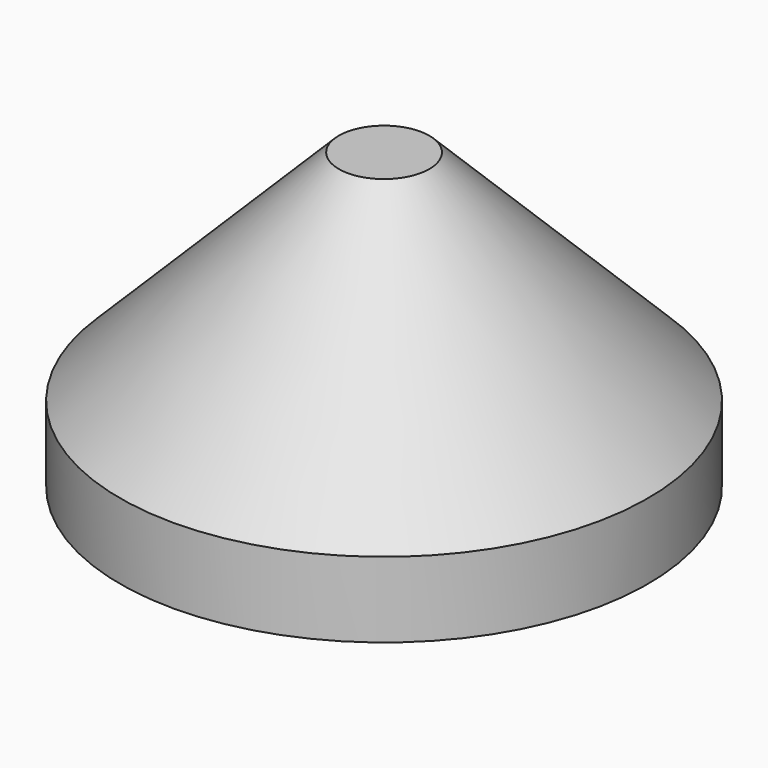
from build123d import *


with BuildPart() as part:
    # Sketch → Revolution (revolve)
    with BuildSketch(Plane.YZ):
        Polygon((0, 39), (-6, 39), (-35, 10), (-35, 0), (-8, 0), (-1, 12.124356), (-1, 14.124356), (0, 15.124356), align=None)
    revolve(axis=Axis((0, 0, 0), (0, 0, 1)))


solid = part.part
